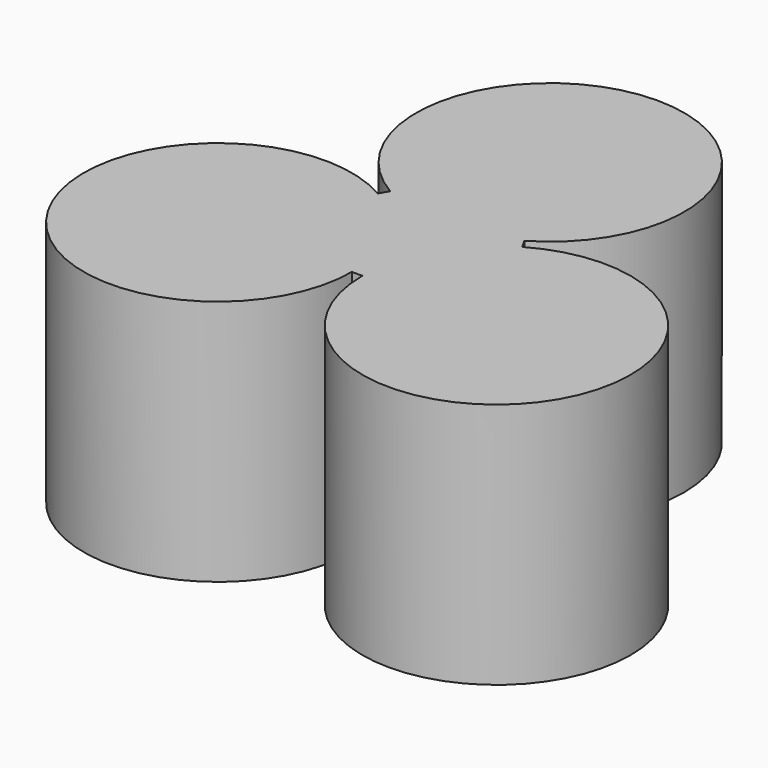
from build123d import *

# Parameters (mm, degrees)
F1_DEPTH = 25.4
F2_R     = 12.7
F3_DEPTH = 3.81


with BuildPart() as f1:
    # F0 (on Top) → F1 (new body)
    with BuildSketch(Plane.XY):
        with BuildLine():
            ThreePointArc((-0.6227839421, -9.525), (-1.1637114498, -5.416247659), (-2.749630657, -1.5875))
            Line((-2.749630657, -1.5875), (-5.499261314, -3.175))
            ThreePointArc((-5.499261314, -3.175), (-4.2305259482, -6.2379981272), (-3.7977839421, -9.525))
            Line((-3.7977839421, -9.525), (-0.6227839421, -9.525))
        make_face()
        with BuildLine():
            Line((-5.499261314, -3.175), (-2.749630657, -1.5875))
            ThreePointArc((-2.749630657, -1.5875), (-5.2724637908, 1.7003201513), (-8.5602839421, 4.2231532851))
            Line((-8.5602839421, 4.2231532851), (-10.1477839421, 1.4735226281))
            ThreePointArc((-10.1477839421, 1.4735226281), (-7.517527821, -0.5447438789), (-5.499261314, -3.175))
        make_face()
        with BuildLine():
            ThreePointArc((-8.5602839421, 4.2231532851), (-30.2459372272, -17.4625), (-0.6227839421, -9.525))
            Line((-0.6227839421, -9.525), (-3.7977839421, -9.525))
            ThreePointArc((-3.7977839421, -9.525), (-27.4963065702, -15.875), (-10.1477839421, 1.4735226281))
            Line((-10.1477839421, 1.4735226281), (-8.5602839421, 4.2231532851))
        make_face()
        with BuildLine():
            ThreePointArc((8.5602839421, 4.2231532851), (5.2724637908, 1.7003201513), (2.749630657, -1.5875))
            Line((2.749630657, -1.5875), (5.499261314, -3.175))
            ThreePointArc((5.499261314, -3.175), (7.517527821, -0.5447438789), (10.1477839421, 1.4735226281))
            Line((10.1477839421, 1.4735226281), (8.5602839421, 4.2231532851))
        make_face()
        with BuildLine():
            Line((5.499261314, -3.175), (2.749630657, -1.5875))
            ThreePointArc((2.749630657, -1.5875), (1.1637114498, -5.416247659), (0.6227839421, -9.525))
            Line((0.6227839421, -9.525), (3.7977839421, -9.525))
            ThreePointArc((3.7977839421, -9.525), (4.2305259482, -6.2379981272), (5.499261314, -3.175))
        make_face()
        with BuildLine():
            ThreePointArc((32.3727839421, -9.525), (24.4352839421, 4.2231532851), (8.5602839421, 4.2231532851))
            Line((8.5602839421, 4.2231532851), (10.1477839421, 1.4735226281))
            ThreePointArc((10.1477839421, 1.4735226281), (22.8477839421, 1.4735226281), (29.1977839421, -9.525))
            ThreePointArc((29.1977839421, -9.525), (16.4977839421, -22.225), (3.7977839421, -9.525))
            Line((3.7977839421, -9.525), (0.6227839421, -9.525))
            ThreePointArc((0.6227839421, -9.525), (16.4977839421, -25.4), (32.3727839421, -9.525))
        make_face()
        with BuildLine():
            ThreePointArc((-7.9375, 5.3018467149), (-4.108752341, 3.7159275077), (0, 3.175))
            Line((0, 3.175), (0, 6.35))
            ThreePointArc((0, 6.35), (-3.2870018728, 6.7827420061), (-6.35, 8.0514773719))
            Line((-6.35, 8.0514773719), (-7.9375, 5.3018467149))
        make_face()
        with BuildLine():
            Line((0, 6.35), (0, 3.175))
            ThreePointArc((0, 3.175), (4.108752341, 3.7159275077), (7.9375, 5.3018467149))
            Line((7.9375, 5.3018467149), (6.35, 8.0514773719))
            ThreePointArc((6.35, 8.0514773719), (3.2870018728, 6.7827420061), (0, 6.35))
        make_face()
        with BuildLine():
            ThreePointArc((15.875, 19.05), (-7.9375, 32.7981532851), (-7.9375, 5.3018467149))
            Line((-7.9375, 5.3018467149), (-6.35, 8.0514773719))
            ThreePointArc((-6.35, 8.0514773719), (-6.35, 30.0485226281), (12.7, 19.05))
            ThreePointArc((12.7, 19.05), (10.9985226281, 12.7), (6.35, 8.0514773719))
            Line((6.35, 8.0514773719), (7.9375, 5.3018467149))
            ThreePointArc((7.9375, 5.3018467149), (13.7481532851, 11.1125), (15.875, 19.05))
        make_face()
        with BuildLine():
            Line((-2.749630657, -1.5875), (0, 0))
            Line((0, 0), (0, 3.175))
            ThreePointArc((0, 3.175), (-4.108752341, 3.7159275077), (-7.9375, 5.3018467149))
            Line((-7.9375, 5.3018467149), (-8.5602839421, 4.2231532851))
            ThreePointArc((-8.5602839421, 4.2231532851), (-5.2724637908, 1.7003201513), (-2.749630657, -1.5875))
        make_face()
        with BuildLine():
            Line((0, 3.175), (0, 0))
            Line((0, 0), (2.749630657, -1.5875))
            ThreePointArc((2.749630657, -1.5875), (5.2724637908, 1.7003201513), (8.5602839421, 4.2231532851))
            Line((8.5602839421, 4.2231532851), (7.9375, 5.3018467149))
            ThreePointArc((7.9375, 5.3018467149), (4.108752341, 3.7159275077), (0, 3.175))
        make_face()
        with BuildLine():
            Line((2.749630657, -1.5875), (0, 0))
            Line((0, 0), (-2.749630657, -1.5875))
            ThreePointArc((-2.749630657, -1.5875), (-1.1637114498, -5.416247659), (-0.6227839421, -9.525))
            Line((-0.6227839421, -9.525), (0.6227839421, -9.525))
            ThreePointArc((0.6227839421, -9.525), (1.1637114498, -5.416247659), (2.749630657, -1.5875))
        make_face()
    extrude(amount=F1_DEPTH)

    # F2 (on face) → F3 (join)
    with BuildSketch(Plane.XY.offset(25.4)):
        with BuildLine():
            ThreePointArc((7.9375, 5.3018467149), (0, 34.925), (-7.9375, 5.3018467149))
            Line((-7.9375, 5.3018467149), (-8.5602839421, 4.2231532851))
            ThreePointArc((-8.5602839421, 4.2231532851), (-30.2459372272, -17.4625), (-0.6227839421, -9.525))
            Line((-0.6227839421, -9.525), (0.6227839421, -9.525))
            ThreePointArc((0.6227839421, -9.525), (30.2459372272, -17.4625), (8.5602839421, 4.2231532851))
            Line((8.5602839421, 4.2231532851), (7.9375, 5.3018467149))
        make_face()
        with Locations((-16.4977839421, -9.525)):
            Circle(F2_R, mode=Mode.SUBTRACT)
        with Locations((16.4977839421, -9.525)):
            Circle(F2_R, mode=Mode.SUBTRACT)
        with Locations((0, 19.05)):
            Circle(F2_R, mode=Mode.SUBTRACT)
        with Locations((-16.4977839421, -9.525)):
            Circle(F2_R)
        with Locations((16.4977839421, -9.525)):
            Circle(F2_R)
        with Locations((0, 19.05)):
            Circle(F2_R)
    extrude(amount=F3_DEPTH)


solid = f1.part
